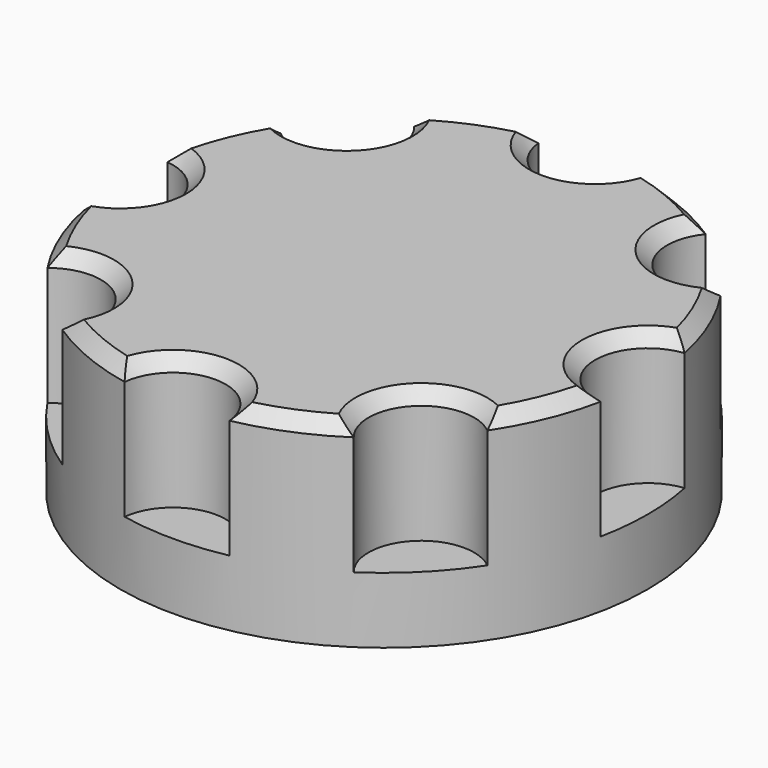
from build123d import *

# Parameters (mm, degrees)
CYLINDER001_R               = 4
CYLINDER001_DEPTH           = 13
CYLINDER001_PLACEMENT_ANGLE = 2
ARRAY_COUNT                 = 8
CYLINDER_R                  = 20
CYLINDER_DEPTH              = 15
CHAMFER_SIZE                = 1


with BuildPart() as array:
    # Cylinder001 → Cylinder001 (new body)
    with BuildSketch(Plane.XY):
        Circle(CYLINDER001_R)
    extrude(amount=CYLINDER001_DEPTH)


with BuildPart() as array_1:
    # Cylinder001 placement: moved
    add(array.part.moved(Location((20, 0, 5))).rotate(Axis((20, 0, 5), (0, 0, -1)), CYLINDER001_PLACEMENT_ANGLE))

    # Array: Array ×8 about axis
    array_axis = Axis((0, 0, 0), (0, 0, 1))


with BuildPart() as array_2:
    add(array_1.part)
    for i in range(1, ARRAY_COUNT):
        add(array_1.part.rotate(array_axis, i * 360 / ARRAY_COUNT))


with BuildPart() as chamfer_body:
    # Cylinder → Cylinder (new body)
    with BuildSketch(Plane.XY):
        Circle(CYLINDER_R)
    extrude(amount=CYLINDER_DEPTH)

    # Cut: cut Array
    add(array_2.part, mode=Mode.SUBTRACT)

    # Chamfer
    chamfer_edges = [chamfer_body.edges().sort_by_distance(p)[0] for p in [
        (18.477591, 7.653669, 15),
        (7.653669, 18.477591, 15),
        (-7.653669, 18.477591, 15),
        (-18.477591, 7.653669, 15),
        (-18.477591, -7.653669, 15),
        (-7.653669, -18.477591, 15),
        (7.653669, -18.477591, 15),
        (18.477591, -7.653669, 15),
        (16, 0, 15),
        (11.313708, -11.313708, 15),
        (0, -16, 15),
        (-11.313708, -11.313708, 15),
        (-16, 0, 15),
        (-11.313708, 11.313708, 15),
        (0, 16, 15),
        (11.313708, 11.313708, 15),
    ]]
    chamfer(chamfer_edges, length=CHAMFER_SIZE)


solid = chamfer_body.part
